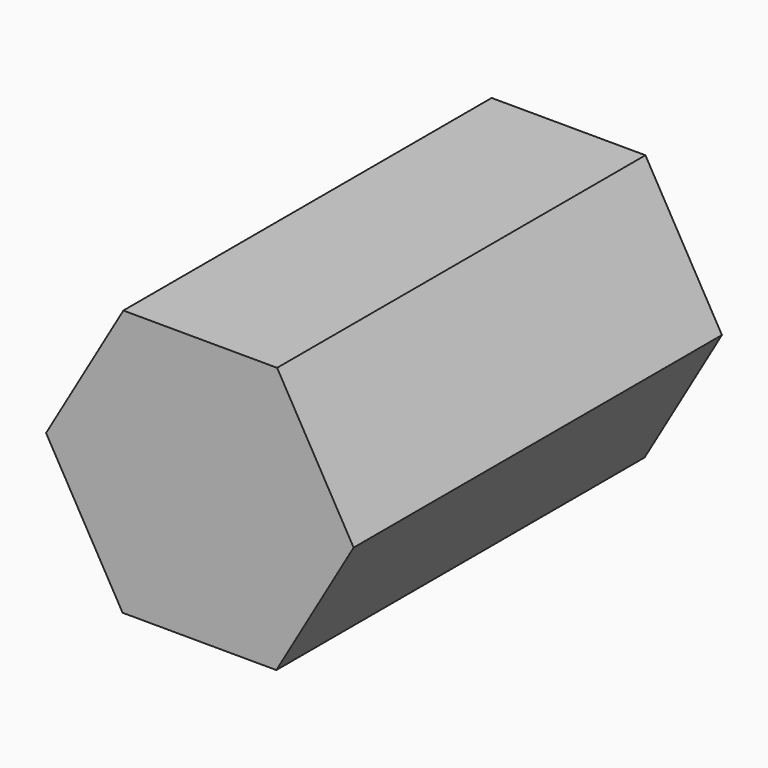
from build123d import *

# Parameters (mm, degrees)
F1_DEPTH = 12.5
F2_T     = -0.9
F3_DEPTH = 21.6


with BuildPart() as f1:
    # F0 (on Front) → F1 (new body, symmetric)
    with BuildSketch(Plane.XZ):
        Polygon((8.3499658552, -0.0238792301), (4.1956629474, 7.2193429363), (-4.1543029077, 7.2432221663), (-8.3499658552, 0.0238792301), (-4.1956629474, -7.2193429363), (4.1543029077, -7.2432221663), align=None)
    extrude(amount=F1_DEPTH, both=True)

    # F2
    f2_openings = [f1.faces().sort_by_distance(p)[0] for p in [
        (0, 12.5, 0),
    ]]
    offset(amount=F2_T, openings=f2_openings)

    # F3 (add): a face of the model
    f3_faces = [f1.faces().sort_by_distance(p)[0] for p in [
        (0, -11.6, 0),
    ]]
    extrude(f3_faces, amount=F3_DEPTH)


solid = f1.part
